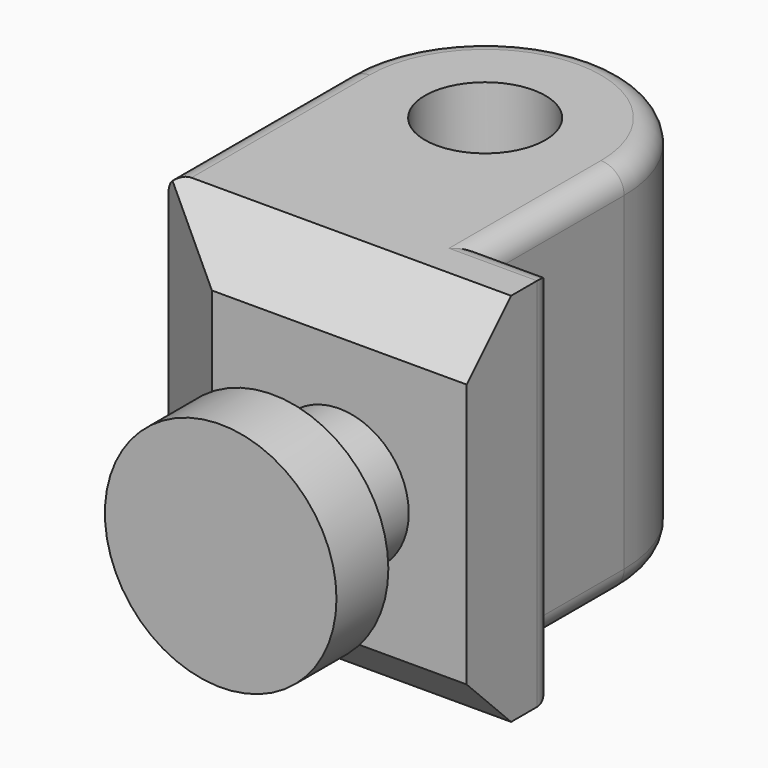
from build123d import *

# Parameters (mm, degrees)
PAD039_DEPTH            = 8.1
SKETCH076_R             = 1.3
POCKET042_DEPTH         = 8.1
POCKET043_DEPTH         = 8
SKETCH078_R             = 1.5
PAD040_DEPTH            = 1.8
SKETCH079_R             = 2.5
PAD041_DEPTH            = 1.4
FILLET024_R             = 0.5
BODY008_PLACEMENT_ANGLE = 270


with BuildPart() as part:
    # Sketch075 → Pad039 (new body)
    with BuildSketch(Plane.XY):
        with BuildLine():
            ThreePointArc((0, 3), (-3, 0), (0, -3))
            Line((0, -3), (4.8, -3))
            Line((4.8, -3), (6, -1.1))
            Line((6, -1.1), (6, 4.4))
            Line((6, 4.4), (3.6, 4.4))
            Line((3.6, 4.4), (3.6, 3))
            Line((3.6, 3), (0, 3))
        make_face()
    extrude(amount=PAD039_DEPTH)

    # Sketch076 (on DatumPlane) → Pocket042 (cut)
    with BuildSketch(Plane.XY.offset(8.1)):
        Circle(SKETCH076_R)
    extrude(amount=-POCKET042_DEPTH, mode=Mode.SUBTRACT)

    # Sketch077 (on DatumPlane) → Pocket043 (cut)
    with BuildSketch(Plane(origin=(0, 4.4, 0), x_dir=(-1, 0, 0), z_dir=(0, 1, 0))):
        Polygon((-4.8, 0), (-6, 1.2), (-6, 0), align=None)
        Polygon((-4.8, 8.1), (-6, 6.9), (-6, 8.1), align=None)
    extrude(amount=-POCKET043_DEPTH, mode=Mode.SUBTRACT)

    # Sketch078 (on DatumPlane) → Pad040 (join)
    with BuildSketch(Plane.YZ.offset(6)):
        with Locations((1.65, 4.05)):
            Circle(SKETCH078_R)
    extrude(amount=PAD040_DEPTH)

    # Sketch079 (on DatumPlane) → Pad041 (join)
    with BuildSketch(Plane.YZ.offset(7.8)):
        with Locations((1.65, 4.05)):
            Circle(SKETCH079_R)
    extrude(amount=PAD041_DEPTH)

    # Fillet024
    fillet024_edges = [part.edges().sort_by_distance(p)[0] for p in [
        (1.8, 3, 8.1),
        (3.6, 3.7, 8.1),
        (3.6, 4.4, 4.05),
        (-3, 0, 8.1),
        (-3, 0, 0),
        (1.8, 3, 0),
        (3.6, 3.7, 0),
        (2.4, -3, 0),
        (2.4, -3, 8.1),
    ]]
    fillet(fillet024_edges, radius=FILLET024_R)


with BuildPart() as part_1:
    # Body008 placement: moved
    add(part.part.moved(Location((31.15, -15, 3.2))).rotate(Axis((31.15, -15, 3.2), (0, 0, 1)), BODY008_PLACEMENT_ANGLE))


solid = part_1.part
